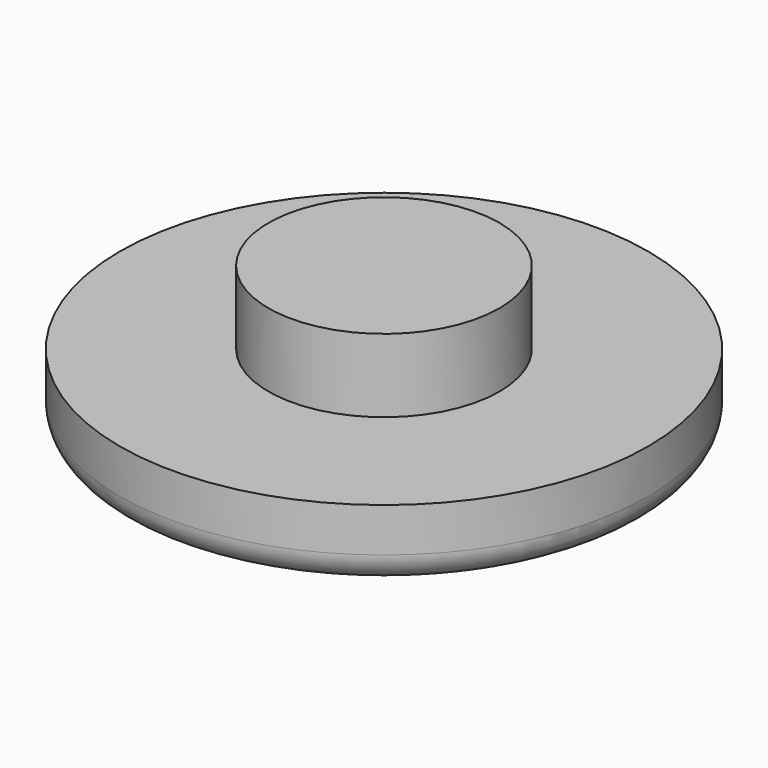
from build123d import *

# Parameters (mm, degrees)
F0_R     = 5
F1_DEPTH = 6.35
F0_R_2   = 11.43
F2_DEPTH = 3.175
F3_R     = 1.27


with BuildPart() as f1:
    # F0 (on Top) → F1 (new body)
    with BuildSketch(Plane.XY):
        Circle(F0_R)
    extrude(amount=F1_DEPTH)

    # F0 (on Top) → F2 (join)
    with BuildSketch(Plane.XY):
        Circle(F0_R_2)
        Circle(F0_R, mode=Mode.SUBTRACT)
    extrude(amount=F2_DEPTH)

    # F3
    f3_edges = [f1.edges().sort_by_distance(p)[0] for p in [
        (-11.43, 0, 0),
    ]]
    fillet(f3_edges, radius=F3_R)


solid = f1.part
